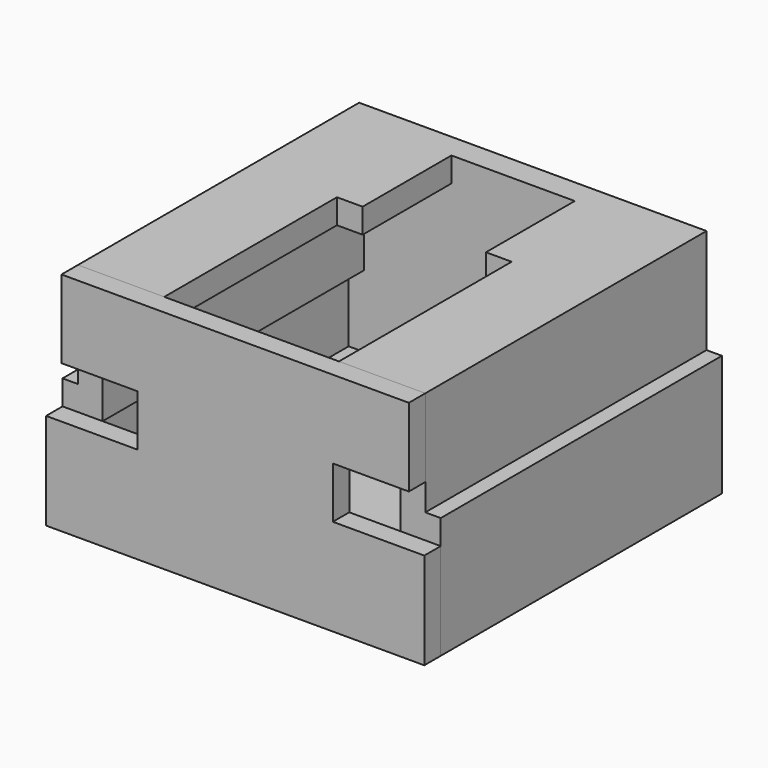
from build123d import *

# Parameters (mm, degrees)
F1_DEPTH = 10.5
F0_W     = 1.25
F0_H     = 1.2
F2_DEPTH = 5.4
F4_DEPTH = 1.2
F5_W     = 16
F5_H     = 1.2
F6_DEPTH = 1.8
F8_DEPTH = 1


with BuildPart() as f1:
    # F0 (on Front) → F1 (new body)
    with BuildSketch(Plane.XZ):
        Polygon((-9.2, 5.9), (-9.2, 0), (9.2, 0), (9.2, 5.9), (8.45, 5.9), (8.45, 11), (4.25, 11), (4.25, 9.8), (7.25, 9.8), (7.25, 4.7), (8, 4.7), (8, 1.2), (-8, 1.2), (-8, 4.7), (-7.25, 4.7), (-7.25, 9.8), (-4.25, 9.8), (-4.25, 11), (-8.45, 11), (-8.45, 5.9), align=None)
    extrude(amount=F1_DEPTH)

    # F0 (on Front) → F2 (join)
    with BuildSketch(Plane.XZ):
        with Locations((3.625, 10.4)):
            Rectangle(F0_W, F0_H)
        Polygon((-9.2, 5.9), (-9.2, 0), (9.2, 0), (9.2, 5.9), (8.45, 5.9), (8.45, 11), (4.25, 11), (4.25, 9.8), (7.25, 9.8), (7.25, 4.7), (8, 4.7), (8, 1.2), (-8, 1.2), (-8, 4.7), (-7.25, 4.7), (-7.25, 9.8), (-4.25, 9.8), (-4.25, 11), (-8.45, 11), (-8.45, 5.9), align=None)
        with Locations((-3.625, 10.4)):
            Rectangle(F0_W, F0_H)
    extrude(amount=-F2_DEPTH)

    # F3 (on face) → F4 (join)
    with BuildSketch(Plane(origin=(0, 5.4, 0), x_dir=(-1, 0, 0), z_dir=(0, 1, 0))):
        Polygon((8.45, 11), (-8.45, 11), (-8.45, 5.9), (-9.2, 5.9), (-9.2, 0), (9.2, 0), (9.2, 5.9), (8.45, 5.9), align=None)
    extrude(amount=F4_DEPTH)

    # F5 (on face) → F6 (cut)
    with BuildSketch(Plane.XZ.offset(10.5)):
        with Locations((0, 0.6)):
            Rectangle(F5_W, F5_H)
    extrude(amount=-F6_DEPTH, mode=Mode.SUBTRACT)


with BuildPart() as f8:
    # F7 (on face) → F8 (new body)
    with BuildSketch(Plane.XZ.offset(10.5)):
        Polygon((4.75, 7.2), (8.45, 7.2), (8.45, 11), (-8.45, 11), (-8.45, 7.2), (-4.75, 7.2), (-4.75, 4.7), (-9.2, 4.7), (-9.2, 0), (9.2, 0), (9.2, 4.7), (4.75, 4.7), align=None)
    extrude(amount=F8_DEPTH)


solid = Compound([f1.part, f8.part])
